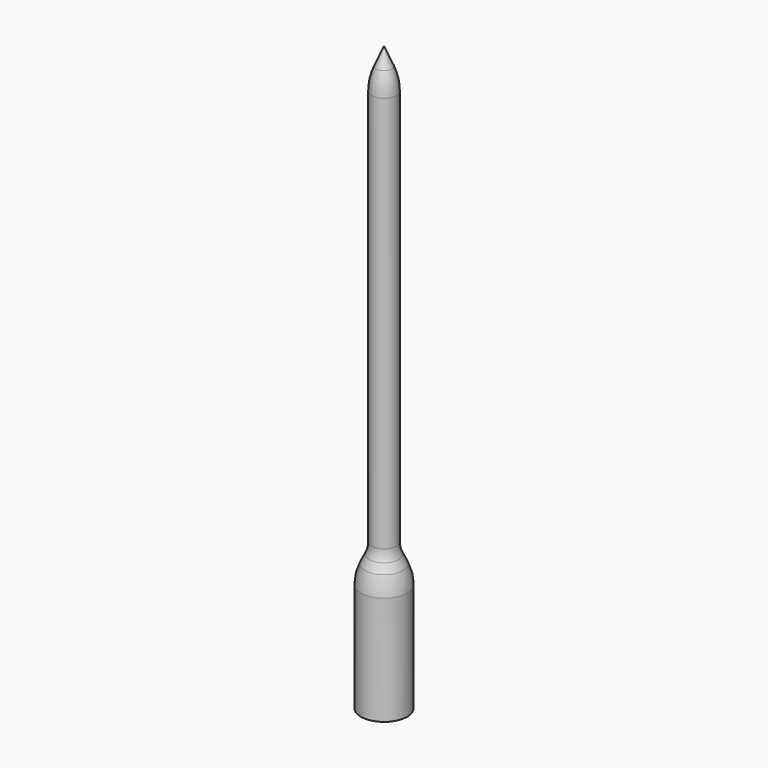
from build123d import *


with BuildPart() as part:
    # Sketch → Revolution (revolve)
    with BuildSketch(Plane.XZ):
        with BuildLine():
            Line((2.7, 0), (2.7, 22))
            Line((2.7, 22), (0, 27))
            Line((0, 27), (0, 118))
            Line((0, 118), (1.570833, 114.42474))
            ThreePointArc((2.5, 110), (2.265202, 112.260624), (1.570833, 114.42474))
            Line((2.5, 110), (2.5, 29.65414))
            ThreePointArc((2.5, 29.65414), (2.62833, 28.531812), (3.006695, 27.46742))
            Line((3.006695, 27.46742), (3.832075, 25.78202))
            ThreePointArc((4.7, 22.036358), (4.480182, 23.958809), (3.832075, 25.78202))
            Line((4.7, 22.036358), (4.7, 0))
            Line((4.7, 0), (2.7, 0))
        make_face()
    revolve(axis=Axis((0, 0, 0), (0, 0, 1)))


solid = part.part
